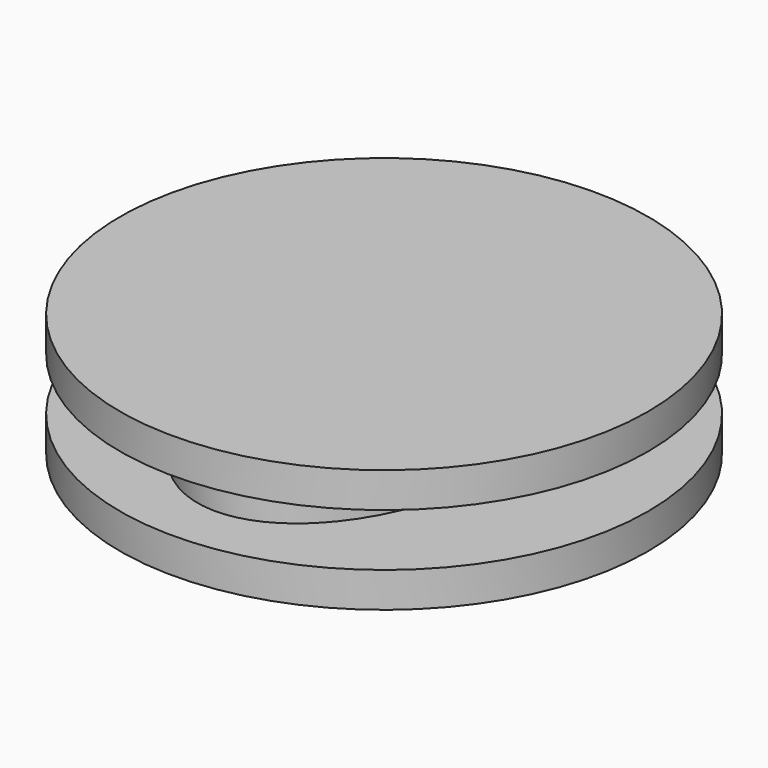
from build123d import *

# Parameters (mm, degrees)
F0_R     = 15.02497
F1_DEPTH = 2
F3_DEPTH = 1.5


with BuildPart() as f1:
    # F0 (on Top) → F1 (new body)
    with BuildSketch(Plane.XY):
        Circle(F0_R)
    extrude(amount=F1_DEPTH)

    # F2 (on face) → F3 (join)
    with BuildSketch(Plane.XY.offset(2)):
        with BuildLine():
            add(Edge.make_bspline(
                [(0, 12.001941), (-13.415678, 12.001941), (-6.707839, -6.00097), (0, -24.003882), (6.707839, -6.00097), (13.415678, 12.001941), (0, 12.001941)],
                knots=[0, 0, 0, 2.094395, 2.094395, 4.18879, 4.18879, 6.283185, 6.283185, 6.283185], degree=2, weights=[1, 0.5, 1, 0.5, 1, 0.5, 1]))
        make_face()
    extrude(amount=F3_DEPTH)

    # F5: F1 across plane


with BuildPart() as f1_1:
    add(f1.part)
    add(f1.part.mirror(Plane.XY.offset(3.5)))


solid = f1_1.part
